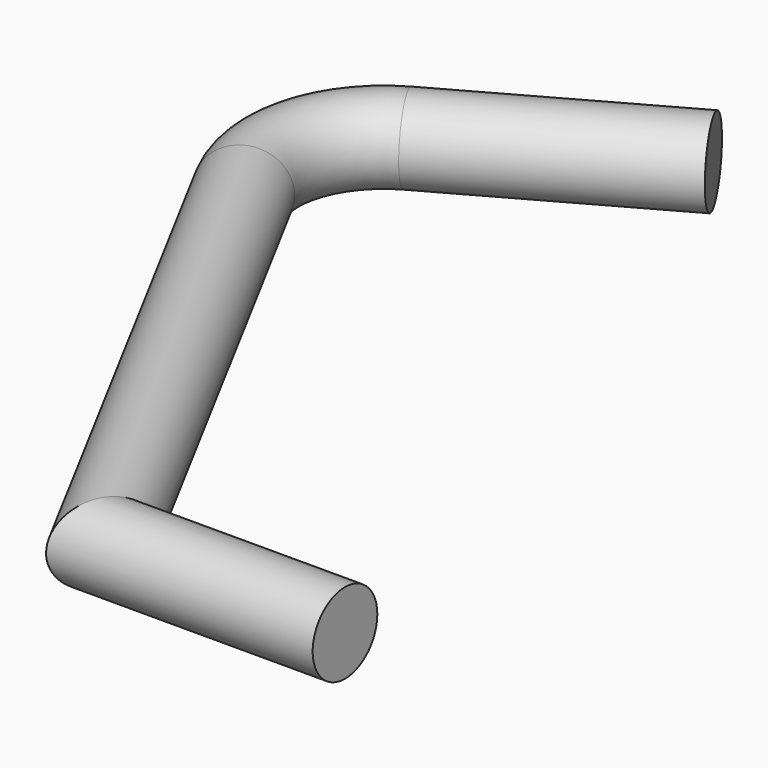
from build123d import *

# Parameters (mm, degrees)
F0_R = 20


with BuildPart() as f2:
    # F2: sweep along a path in F1
    with BuildLine(Plane.XY) as f2_path:
        Line((0, 0), (-120, 0))
        Line((-120, 0), (-261.6664487428, 264.4439776221))
        ThreePointArc((-261.6664487428, 264.4439776221), (-265.9656369441, 305.8888003852), (-239.9757840181, 338.4569427629))
        Line((-239.9757840181, 338.4569427629), (-135.177450265, 396.9146988144))
    # F0 (on Right) → F2 (sweep)
    with BuildSketch(Plane.YZ):
        Circle(F0_R)
    sweep(path=f2_path.line, transition=Transition.RIGHT)


solid = f2.part
